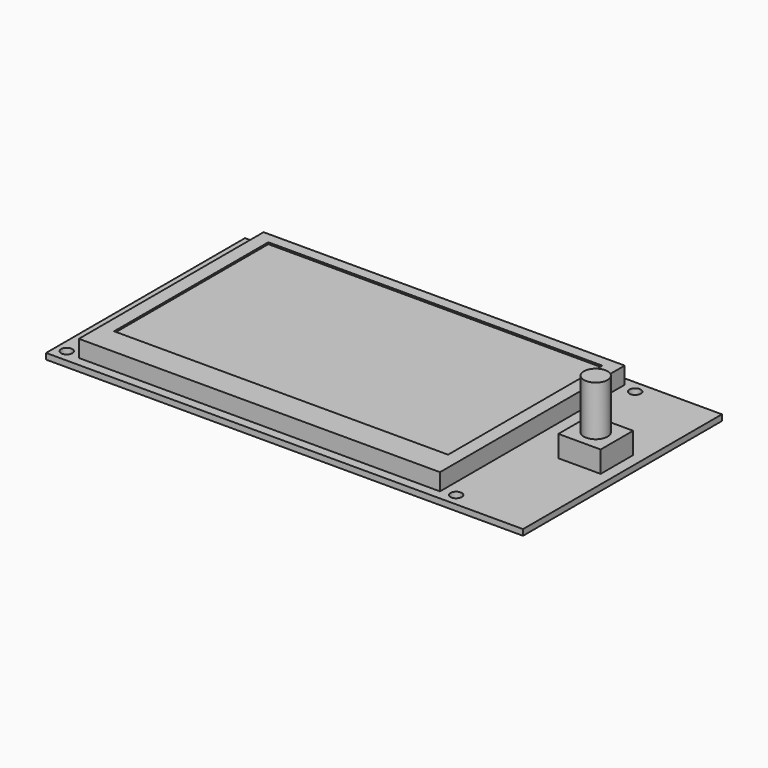
from build123d import *

# Parameters (mm, degrees)
SKETCH_W        = 141
SKETCH_H        = 73.5
PAD_DEPTH       = 1.75
SKETCH001_W     = 106.75
SKETCH001_H     = 68.25
PAD001_DEPTH    = 5
SKETCH002_W     = 98.75
SKETCH002_H     = 57
POCKET_DEPTH    = 0.5
SKETCH003_W     = 12.5
SKETCH003_H     = 12
PAD002_DEPTH    = 6.35
SKETCH004_R     = 3.5
PAD003_DEPTH    = 14.75
SKETCH005_R     = 4.625
PAD004_DEPTH    = 5.5
SKETCH006_W     = 9
SKETCH006_H     = 20.5
PAD005_DEPTH    = 9.5
SKETCH007_R     = 1.6665
POCKET001_DEPTH = 11.251


with BuildPart() as part:
    # Sketch → Pad (new body)
    with BuildSketch(Plane.XY):
        with Locations((70.5, 36.75)):
            Rectangle(SKETCH_W, SKETCH_H)
    extrude(amount=PAD_DEPTH)

    # Sketch001 (on Face6 of Pad) → Pad001 (join)
    with BuildSketch(Plane.XY.offset(1.75)):
        with Locations((60.875, 36.875)):
            Rectangle(SKETCH001_W, SKETCH001_H)
    extrude(amount=PAD001_DEPTH)

    # Sketch002 (on Face11 of Pad001) → Pocket (cut)
    with BuildSketch(Plane.XY.offset(6.75)):
        with Locations((60.875, 39.25)):
            Rectangle(SKETCH002_W, SKETCH002_H)
    extrude(amount=-POCKET_DEPTH, mode=Mode.SUBTRACT)

    # Sketch003 (on Face5 of Pocket) → Pad002 (join)
    with BuildSketch(Plane.XY.offset(1.75)):
        with Locations((131.5, 38.75)):
            Rectangle(SKETCH003_W, SKETCH003_H)
    extrude(amount=PAD002_DEPTH)

    # Sketch004 (on Face16 of Pad002) → Pad003 (join)
    with BuildSketch(Plane.XY.offset(8.1)):
        with Locations((131.5, 38.75)):
            Circle(SKETCH004_R)
    extrude(amount=PAD003_DEPTH)

    # Sketch005 (on Face4 of Pad003) → Pad004 (join)
    with BuildSketch(Plane(origin=(0, 0, 0), x_dir=(1, 0, 0), z_dir=(0, 0, -1))):
        with Locations((125.725, -55.875)):
            Circle(SKETCH005_R)
    extrude(amount=PAD004_DEPTH)

    # Sketch006 (on Face4 of Pad004) → Pad005 (join)
    with BuildSketch(Plane(origin=(0, 0, 0), x_dir=(1, 0, 0), z_dir=(0, 0, -1))):
        with Locations((19.5, -30.25)):
            Rectangle(SKETCH006_W, SKETCH006_H)
    extrude(amount=PAD005_DEPTH)

    # Sketch007 (on Face5 of Pad005) → Pocket001 (cut, through all)
    with BuildSketch(Plane.XY.offset(1.75)):
        with Locations((3.1665, 3.6665)):
            Circle(SKETCH007_R)
        with Locations((3.1665, 69.8335)):
            Circle(SKETCH007_R)
        with Locations((118.2835, 3.6665)):
            Circle(SKETCH007_R)
        with Locations((118.2835, 69.8335)):
            Circle(SKETCH007_R)
    extrude(amount=-POCKET001_DEPTH, mode=Mode.SUBTRACT)


solid = part.part
